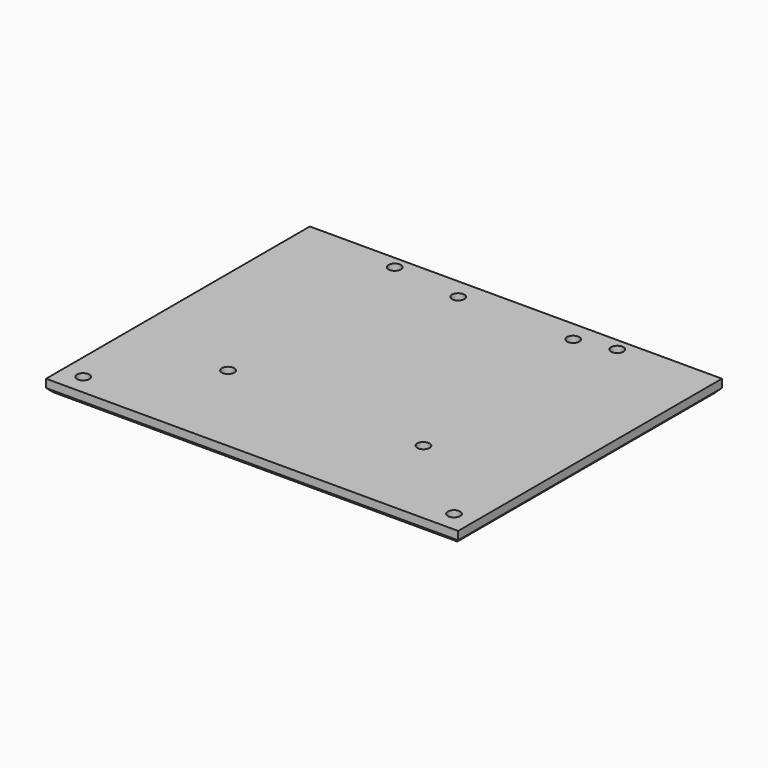
from build123d import *

# Parameters (mm, degrees)
F0_W     = 100
F0_H     = 80
F1_DEPTH = 3
F3_D     = 3
F4_SIZE  = 1
F6_D     = 3


with BuildPart() as f1:
    # F0 (on Top) → F1 (new body)
    with BuildSketch(Plane.XY):
        Rectangle(F0_W, F0_H)
    extrude(amount=F1_DEPTH)

    # F3 (through all)
    with Locations(Plane.XY.offset(3)):
        with Locations((-10, 35), (17.9, 35), (23, -16.8), (-25.2, -15.8)):
            Hole(F3_D / 2)

    # F4
    f4_edges = [f1.edges().sort_by_distance(p)[0] for p in [
        (0, -40, 0),
        (-50, 0, 0),
        (50, 0, 0),
        (0, 40, 0),
    ]]
    chamfer(f4_edges, length=F4_SIZE)

    # F6 (through all)
    with Locations(Plane.XY.offset(3)):
        with Locations((-45, -35), (-27, 37), (27, 37), (45, -35)):
            Hole(F6_D / 2)


solid = f1.part
